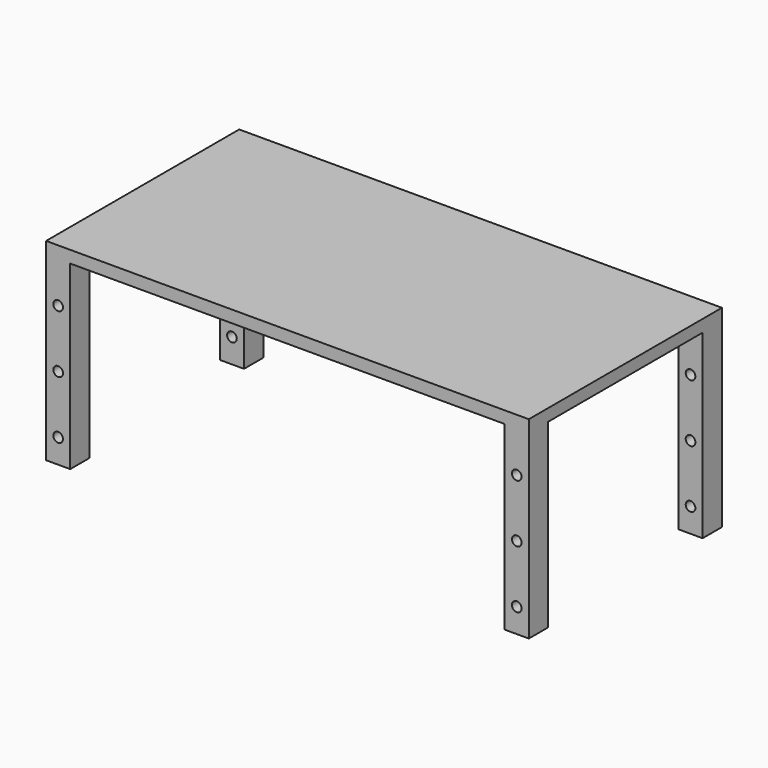
from build123d import *

# Parameters (mm, degrees)
F0_W     = 100
F0_H     = 50
F1_DEPTH = 2.5
F2_W     = 5
F2_H     = 5
F3_DEPTH = 40
F4_R     = 1
F5_DEPTH = 50.001


with BuildPart() as f1:
    # F0 (on Top) → F1 (new body)
    with BuildSketch(Plane.XY):
        with Locations((-1.152176, -27.418026)):
            Rectangle(F0_W, F0_H)
    extrude(amount=F1_DEPTH)

    # F2 (on face) → F3 (join)
    with BuildSketch(Plane.XY.offset(2.5)):
        with Locations((-48.652176, -4.918026)):
            Rectangle(F2_W, F2_H)
        with Locations((46.347824, -4.918026)):
            Rectangle(F2_W, F2_H)
        with Locations((46.347824, -49.918026)):
            Rectangle(F2_W, F2_H)
        with Locations((-48.652176, -49.918026)):
            Rectangle(F2_W, F2_H)
    extrude(amount=-F3_DEPTH)

    # F4 (on face) → F5 (cut, through all)
    with BuildSketch(Plane.XZ.offset(52.418026)):
        with Locations((46.347824, -32.5)):
            Circle(F4_R)
        with Locations((46.347824, -20.5)):
            Circle(F4_R)
        with Locations((46.347824, -8.5)):
            Circle(F4_R)
        with Locations((-48.652176, -8.5)):
            Circle(F4_R)
        with Locations((-48.652176, -20.5)):
            Circle(F4_R)
        with Locations((-48.652176, -32.5)):
            Circle(F4_R)
    extrude(amount=-F5_DEPTH, mode=Mode.SUBTRACT)


solid = f1.part
